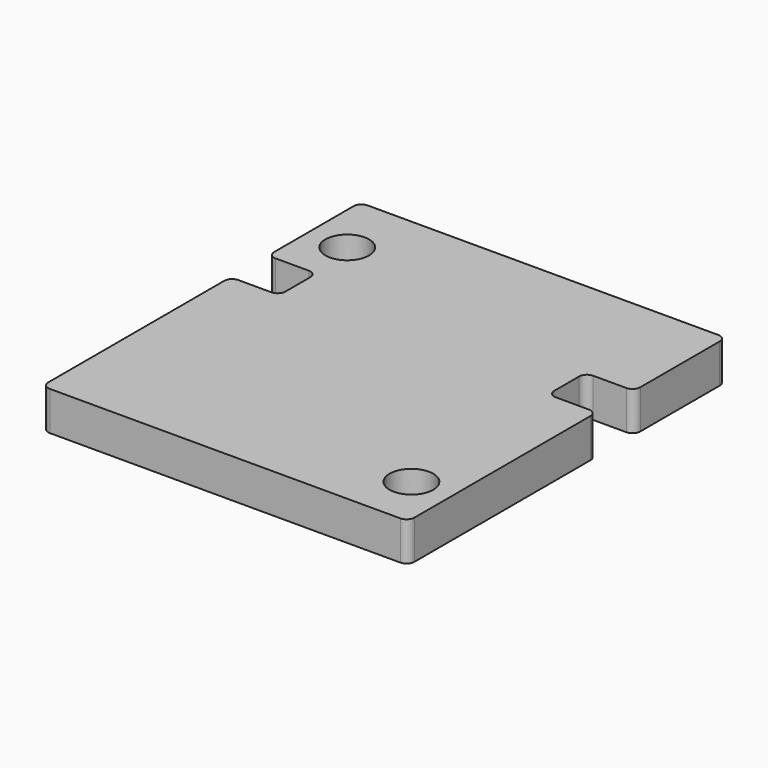
from build123d import *

# Parameters (mm, degrees)
BOX002_W          = 6.25
BOX002_H          = 6
BOX002_DEPTH      = 10
BOX001_W          = 6.25
BOX001_H          = 6
BOX001_DEPTH      = 10
CYLINDER001_R     = 2.8
CYLINDER001_DEPTH = 10
CYLINDER_R        = 2.8
CYLINDER_DEPTH    = 10
BOX_W             = 47
BOX_H             = 51
BOX_DEPTH         = 5
FILLET_R          = 1
FILLET001_R       = 1
FILLET002_R       = 1


with BuildPart() as cube002:
    # Box002 → Box002 (new body)
    with BuildSketch(Plane(origin=(40.75, 30.25, -2), x_dir=(1, 0, 0), z_dir=(0, 0, 1))):
        with Locations((3.125, 3)):
            Rectangle(BOX002_W, BOX002_H)
    extrude(amount=BOX002_DEPTH)


with BuildPart() as fusion:
    # Box001 → Box001 (new body)
    with BuildSketch(Plane(origin=(0, 30.25, -2), x_dir=(1, 0, 0), z_dir=(0, 0, 1))):
        with Locations((3.125, 3)):
            Rectangle(BOX001_W, BOX001_H)
    extrude(amount=BOX001_DEPTH)

    # Fusion: union Cube002
    add(cube002.part)


with BuildPart() as cylinder001:
    # Cylinder001 → Cylinder001 (new body)
    with BuildSketch(Plane(origin=(41.9, 6.9, -2), x_dir=(1, 0, 0), z_dir=(0, 0, 1))):
        Circle(CYLINDER001_R)
    extrude(amount=CYLINDER001_DEPTH)


with BuildPart() as cylinder:
    # Cylinder → Cylinder (new body)
    with BuildSketch(Plane(origin=(5.1, 42.6, -2), x_dir=(1, 0, 0), z_dir=(0, 0, 1))):
        Circle(CYLINDER_R)
    extrude(amount=CYLINDER_DEPTH)


with BuildPart() as fillet002:
    # Box → Box (new body)
    with BuildSketch(Plane.XY):
        with Locations((23.5, 25.5)):
            Rectangle(BOX_W, BOX_H)
    extrude(amount=BOX_DEPTH)

    # Cut: cut Cylinder
    add(cylinder.part, mode=Mode.SUBTRACT)

    # Cut001: cut Cylinder001
    add(cylinder001.part, mode=Mode.SUBTRACT)

    # Cut002: cut Fusion
    add(fusion.part, mode=Mode.SUBTRACT)

    # Fillet
    fillet_edges = [fillet002.edges().sort_by_distance(p)[0] for p in [
        (0, 0, 2.5),
        (47, 0, 2.5),
        (0, 51, 2.5),
        (47, 51, 2.5),
    ]]
    fillet(fillet_edges, radius=FILLET_R)

    # Fillet001
    fillet001_edges = [fillet002.edges().sort_by_distance(p)[0] for p in [
        (0, 30.25, 2.5),
        (0, 36.25, 2.5),
        (47, 30.25, 2.5),
        (47, 36.25, 2.5),
    ]]
    fillet(fillet001_edges, radius=FILLET001_R)

    # Fillet002
    fillet002_edges = [fillet002.edges().sort_by_distance(p)[0] for p in [
        (6.25, 30.25, 2.5),
        (6.25, 36.25, 2.5),
        (40.75, 30.25, 2.5),
        (40.75, 36.25, 2.5),
    ]]
    fillet(fillet002_edges, radius=FILLET002_R)


solid = fillet002.part
